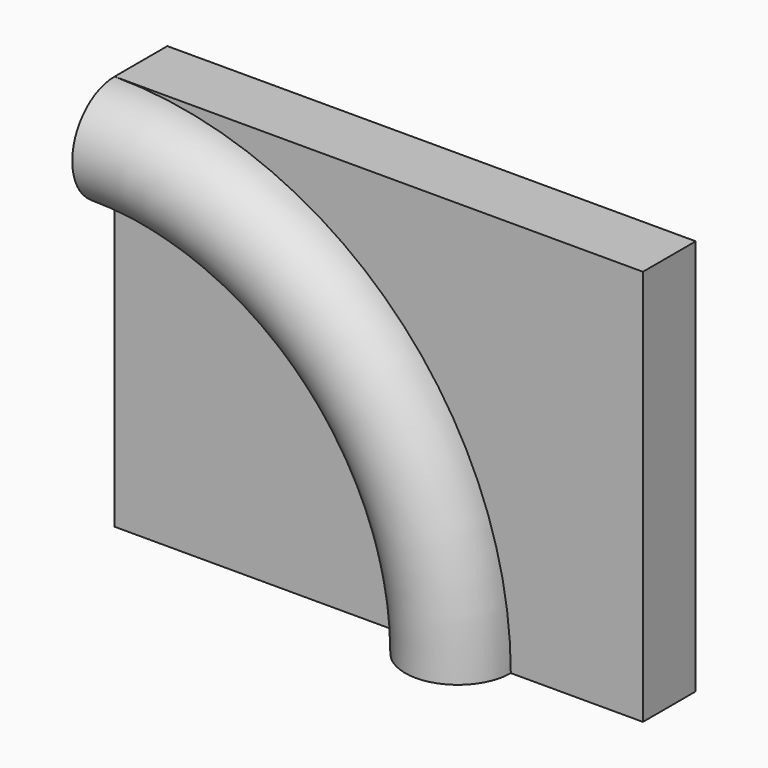
from build123d import *

# Parameters (mm, degrees)
F1_DEPTH = 12.7


with BuildPart() as f1:
    # F0 (on Front) → F1 (new body)
    with BuildSketch(Plane.XZ):
        with BuildLine():
            Line((0, 76.2), (0, 0))
            Line((0, 0), (76.2, 0))
            ThreePointArc((76.2, 0), (53.881537, 53.881537), (0, 76.2))
        make_face()
        with BuildLine():
            ThreePointArc((0, 76.2), (53.881537, 53.881537), (76.2, 0))
            Line((76.2, 0), (101.6, 0))
            Line((101.6, 0), (101.6, 76.2))
            Line((101.6, 76.2), (0, 76.2))
        make_face()
    extrude(amount=-F1_DEPTH)


with BuildPart() as f3:
    # F3: sweep along a path in F0
    with BuildLine(Plane.XZ) as f3_path:
        ThreePointArc((0, 76.2), (53.881537, 53.881537), (76.2, 0))
    # F2 (on Right) → F3 (sweep)
    with BuildSketch(Plane.YZ):
        with BuildLine():
            ThreePointArc((0, 76.2), (-10.16, 66.04), (0, 55.88))
            Line((0, 55.88), (0, 76.2))
        make_face()
    sweep(path=f3_path.line)


solid = Compound([f1.part, f3.part])
